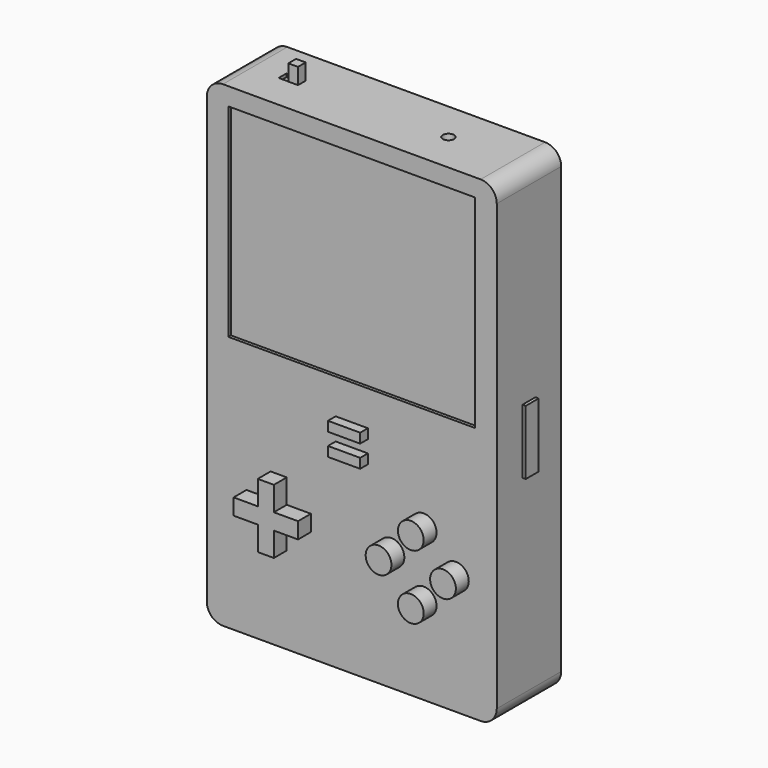
from build123d import *

# Parameters (mm, degrees)
F1_DEPTH  = 25
F2_W      = 5
F2_H      = 20
F3_DEPTH  = 1
F4_W      = 76.621622
F4_H      = 63
F5_DEPTH  = 1
F7_DEPTH  = 8
F10_DEPTH = 6
F11_R     = 4
F12_DEPTH = 5
F13_W     = 10
F13_H     = 3
F14_DEPTH = 3
F15_W     = 3
F15_H     = 3
F16_DEPTH = 1
F17_W     = 3
F17_H     = 3
F18_DEPTH = 5


with BuildPart() as f1:
    # F0 (on Front) → F1 (new body)
    with BuildSketch(Plane.XZ):
        with BuildLine():
            Line((-40, -74), (40, -74))
            ThreePointArc((40, -74), (43.535534, -72.535534), (45, -69))
            Line((45, -69), (45, 69))
            ThreePointArc((45, 69), (43.535534, 72.535534), (40, 74))
            Line((40, 74), (-40, 74))
            ThreePointArc((-40, 74), (-43.535534, 72.535534), (-45, 69))
            Line((-45, 69), (-45, -69))
            ThreePointArc((-45, -69), (-43.535534, -72.535534), (-40, -74))
        make_face()
    extrude(amount=-F1_DEPTH)

    # F2 (on face) → F3 (join)
    with BuildSketch(Plane.YZ.offset(45)):
        with Locations((12.5, 0)):
            Rectangle(F2_W, F2_H)
    extrude(amount=F3_DEPTH)

    # F4 (on face) → F5 (cut)
    with BuildSketch(Plane.XZ):
        with Locations((0, 37)):
            Rectangle(F4_W, F4_H)
    extrude(amount=-F5_DEPTH, mode=Mode.SUBTRACT)

    # F6 (on face) → F7 (cut)
    with BuildSketch(Plane(origin=(0, 0, -74), x_dir=(1, 0, 0), z_dir=(0, 0, -1))):
        Polygon((3.45, -11.575), (0, -11.575), (-3.45, -11.575), (-3.45, -12.5), (-1.676761, -13.425), (1.676761, -13.425), (3.45, -12.5), align=None)
    extrude(amount=-F7_DEPTH, mode=Mode.SUBTRACT)

    # F9 (on face) → F10 (cut)
    with BuildSketch(Plane.XY.offset(74)):
        with BuildLine():
            ThreePointArc((21.75, 12.5), (20, 14.25), (18.25, 12.5))
            Line((18.25, 12.5), (21.75, 12.5))
        make_face()
        with BuildLine():
            Line((21.75, 12.5), (18.25, 12.5))
            ThreePointArc((18.25, 12.5), (20, 10.75), (21.75, 12.5))
        make_face()
    extrude(amount=-F10_DEPTH, mode=Mode.SUBTRACT)

    # F11 (on Front) → F12 (join)
    with BuildSketch(Plane.XZ):
        Polygon((-20.187831, -27), (-22.687831, -27), (-25.187831, -27), (-25.187831, -34.5), (-32.687831, -34.5), (-32.687831, -37), (-32.687831, -39.5), (-25.187831, -39.5), (-25.187831, -47), (-22.687831, -47), (-20.187831, -47), (-20.187831, -39.5), (-12.687831, -39.5), (-12.687831, -37), (-12.687831, -34.5), (-20.187831, -34.5), align=None)
        with Locations((32.312169, -37)):
            Circle(F11_R)
        with Locations((22.312169, -47)):
            Circle(F11_R)
        with Locations((12.312169, -37)):
            Circle(F11_R)
        with Locations((22.312169, -27)):
            Circle(F11_R)
    extrude(amount=F12_DEPTH)

    # F13 (on face) → F14 (join)
    with BuildSketch(Plane.XZ):
        with Locations((0, -6.875)):
            Rectangle(F13_W, F13_H)
        with Locations((0, -13.75)):
            Rectangle(F13_W, F13_H)
    extrude(amount=F14_DEPTH)

    # F15 (on face) → F16 (cut)
    with BuildSketch(Plane.XY.offset(74)):
        with Locations((-30, 12.5)):
            Rectangle(F15_W, F15_H)
    extrude(amount=-F16_DEPTH, mode=Mode.SUBTRACT)

    # F17 (on face) → F18 (join)
    with BuildSketch(Plane.XY.offset(74)):
        with Locations((-26.967838, 12.45954)):
            Rectangle(F17_W, F17_H)
    extrude(amount=F18_DEPTH)


solid = f1.part
